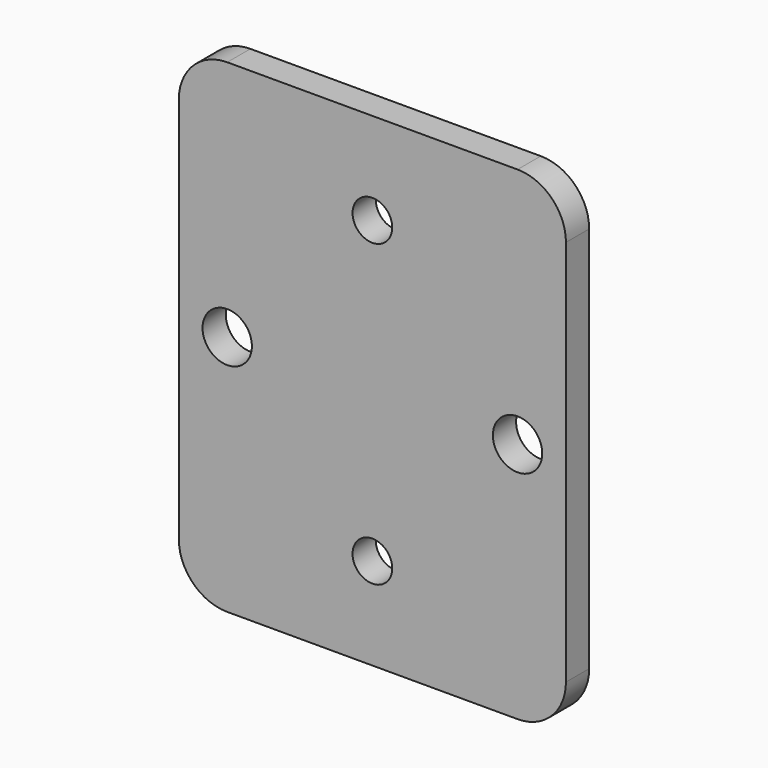
from build123d import *

# Parameters (mm, degrees)
F0_W     = 40
F0_H     = 50
F1_DEPTH = 3
F3_D     = 4.1
F4_D     = 5.1
F5_R     = 5


with BuildPart() as f1:
    # F0 (on Front) → F1 (new body)
    with BuildSketch(Plane.XZ):
        Rectangle(F0_W, F0_H)
    extrude(amount=-F1_DEPTH)

    # F3 (through all)
    with Locations(Plane.XZ):
        with Locations((0, 15.5), (0, -15.5)):
            Hole(F3_D / 2)

    # F4 (through all)
    with Locations(Plane.XZ):
        with Locations((-15, 0), (15, 0)):
            Hole(F4_D / 2)

    # F5
    f5_edges = [f1.edges().sort_by_distance(p)[0] for p in [
        (20, 1.5, 25),
        (20, 1.5, -25),
        (-20, 1.5, -25),
        (-20, 1.5, 25),
    ]]
    fillet(f5_edges, radius=F5_R)


solid = f1.part
